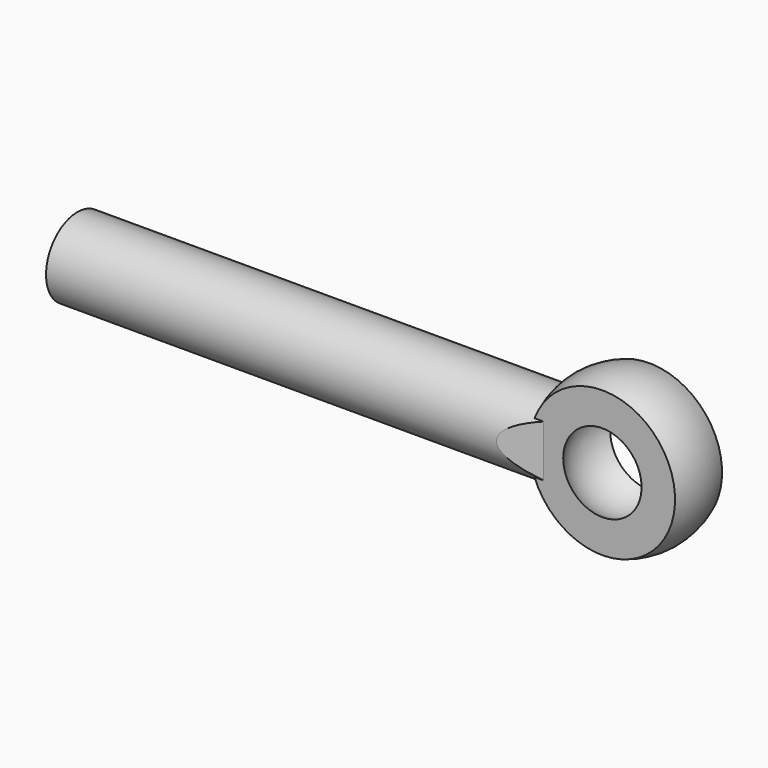
from build123d import *

# Parameters (mm, degrees)
F2_W     = 10
F2_H     = 3
F3_DEPTH = 12.5
F5_R     = 2
F6_DEPTH = 25
F8_DEPTH = 12.5


with BuildPart() as f1:
    # F0 (on Top) → F1 (revolve)
    with BuildSketch(Plane.XY):
        with BuildLine():
            ThreePointArc((0, -2.5), (-2.5, 0), (0, 2.5))
            Line((0, 2.5), (0, 4))
            ThreePointArc((0, 4), (-4, 0), (0, -4))
            Line((0, -4), (0, -2.5))
        make_face()
    revolve(axis=Axis((0, 0, 0), (0, -1, 0)))

    # F2 (on Top) → F3 (intersect, symmetric)
    with BuildSketch(Plane.XY):
        Rectangle(F2_W, F2_H)
    extrude(amount=F3_DEPTH, both=True, mode=Mode.INTERSECT)

    # F5 (on offset) → F6 (join)
    with BuildSketch(Plane.YZ.offset(-3)):
        Circle(F5_R)
    extrude(amount=-F6_DEPTH)

    # F7 (on Top) → F8 (cut, symmetric)
    with BuildSketch(Plane.XY):
        Polygon((-5, 2), (-3, 1.5), (3.708099, 1.5), (9, 1.5), (9, -1.5), (3.708099, -1.5), (-3, -1.5), (-5, -2), (-3, -2), (10, -2), (10, 2), (-3, 2), align=None)
    extrude(amount=F8_DEPTH, both=True, mode=Mode.SUBTRACT)


solid = f1.part
